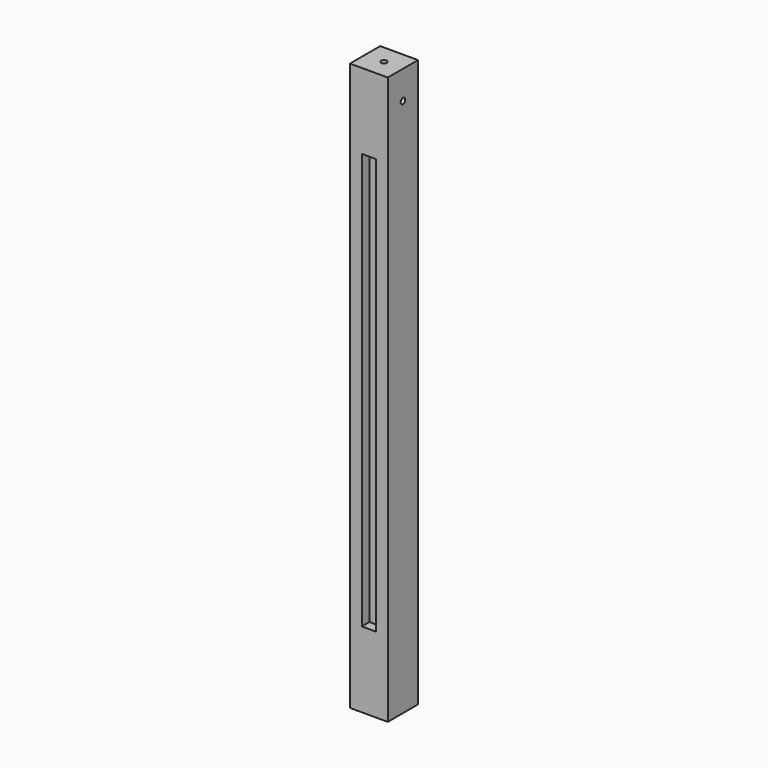
from build123d import *

# Parameters (mm, degrees)
F0_W      = 40
F0_H      = 40
F1_DEPTH  = 600
F2_R      = 3
F3_DEPTH  = 12
F4_R      = 3
F5_DEPTH  = 12
F6_R      = 3
F7_DEPTH  = 22
F8_W      = 15
F8_H      = 440
F9_DEPTH  = 10
F10_W     = 15
F10_H     = 440
F11_DEPTH = 10


with BuildPart() as f1:
    # F0 (on Top) → F1 (new body)
    with BuildSketch(Plane.XY):
        with Locations((20, -20)):
            Rectangle(F0_W, F0_H)
    extrude(amount=F1_DEPTH)

    # F2 (on face) → F3 (cut)
    with BuildSketch(Plane.YZ.offset(40)):
        with Locations((-20, 570)):
            Circle(F2_R)
    extrude(amount=-F3_DEPTH, mode=Mode.SUBTRACT)

    # F4 (on face) → F5 (cut)
    with BuildSketch(Plane(origin=(0, 0, 0), x_dir=(-1, 0, 0), z_dir=(0, 1, 0))):
        with Locations((-20, 570)):
            Circle(F4_R)
    extrude(amount=-F5_DEPTH, mode=Mode.SUBTRACT)

    # F6 (on face) → F7 (cut)
    with BuildSketch(Plane.XY.offset(600)):
        with Locations((20, -20)):
            Circle(F6_R)
    extrude(amount=-F7_DEPTH, mode=Mode.SUBTRACT)

    # F8 (on face) → F9 (cut)
    with BuildSketch(Plane.XZ.offset(40)):
        with Locations((20, 300)):
            Rectangle(F8_W, F8_H)
    extrude(amount=-F9_DEPTH, mode=Mode.SUBTRACT)

    # F10 (on face) → F11 (cut)
    with BuildSketch(Plane(origin=(0, 0, 0), x_dir=(0, -1, 0), z_dir=(-1, 0, 0))):
        with Locations((20, 300)):
            Rectangle(F10_W, F10_H)
    extrude(amount=-F11_DEPTH, mode=Mode.SUBTRACT)


solid = f1.part
